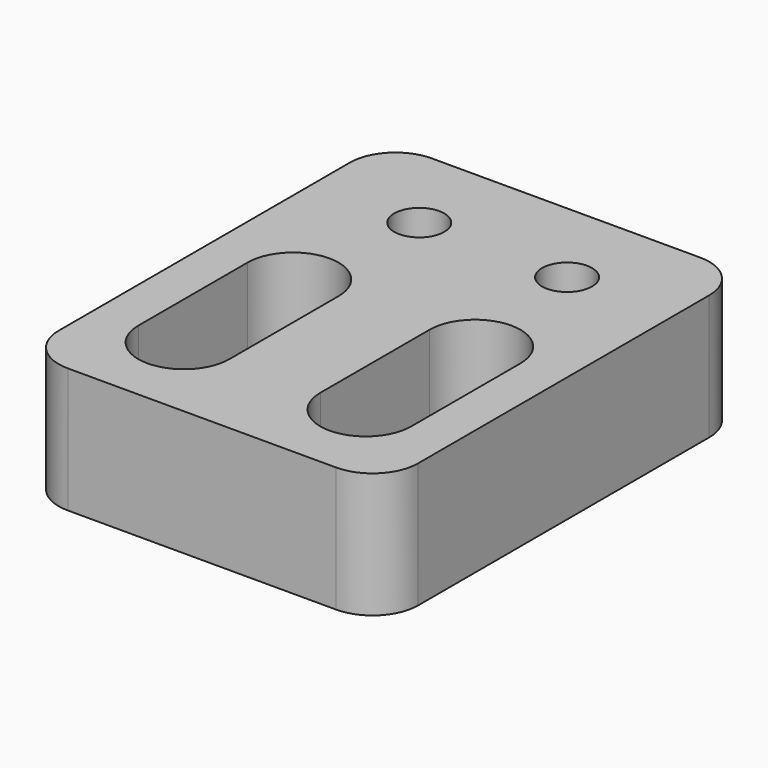
from build123d import *

# Parameters (mm, degrees)
F0_R     = 1.1
F1_DEPTH = 5.5
F2_R     = 2


with BuildPart() as f1:
    # F0 (on Top) → F1 (new body)
    with BuildSketch(Plane.XY):
        Polygon((7.9, 5.291607), (0, 5.291607), (-7.9, 5.291607), (-7.9, -14.708393), (0, -14.708393), (7.9, -14.708393), align=None)
        with BuildLine():
            ThreePointArc((-2, -10.708393), (-4, -12.708393), (-6, -10.708393))
            Line((-6, -10.708393), (-6, -4.708393))
            ThreePointArc((-6, -4.708393), (-4, -2.708393), (-2, -4.708393))
            Line((-2, -4.708393), (-2, -10.708393))
        make_face(mode=Mode.SUBTRACT)
        with BuildLine():
            Line((6, -4.708393), (6, -10.708393))
            ThreePointArc((6, -10.708393), (4, -12.708393), (2, -10.708393))
            Line((2, -10.708393), (2, -4.708393))
            ThreePointArc((2, -4.708393), (4, -2.708393), (6, -4.708393))
        make_face(mode=Mode.SUBTRACT)
        with Locations((-3.25, 1.291607)):
            Circle(F0_R, mode=Mode.SUBTRACT)
        with Locations((3.25, 1.291607)):
            Circle(F0_R, mode=Mode.SUBTRACT)
    extrude(amount=F1_DEPTH)

    # F2
    f2_edges = [f1.edges().sort_by_distance(p)[0] for p in [
        (7.9, -14.708393, 2.75),
        (7.9, 5.291607, 2.75),
        (-7.9, -14.708393, 2.75),
        (-7.9, 5.291607, 2.75),
    ]]
    fillet(f2_edges, radius=F2_R)


solid = f1.part
